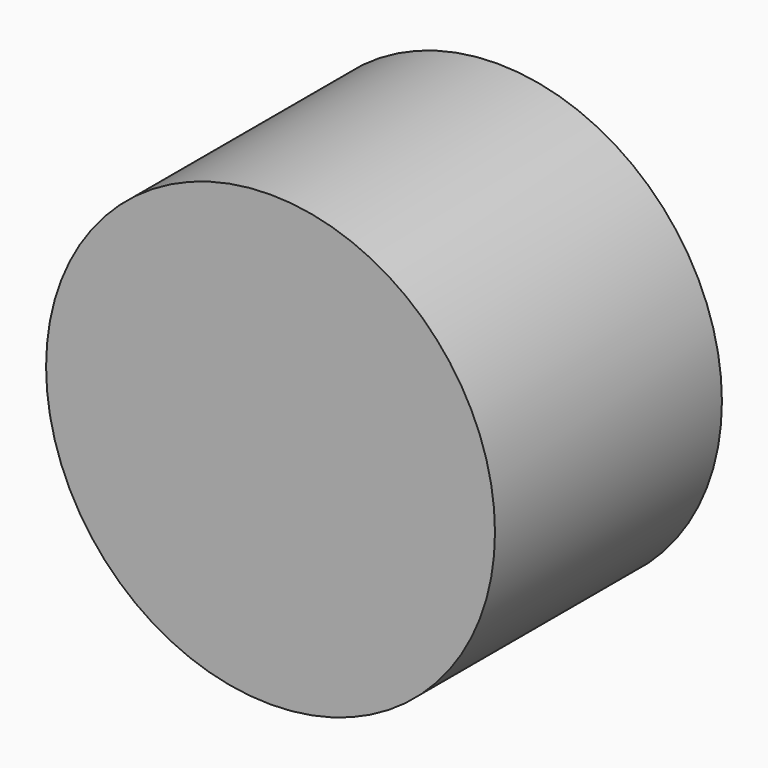
from build123d import *

# Parameters (mm, degrees)
F0_R      = 40.193809
F1_DEPTH  = 25.4
F1_FACE_R = 40.193809
F2_DEPTH  = 25.4


with BuildPart() as f1:
    # F0 (on Front) → F1 (new body)
    with BuildSketch(Plane.XZ):
        Circle(F0_R)
    extrude(amount=F1_DEPTH)

    # F1_face (on face) → F2 (join)
    with BuildSketch(Plane.XZ.offset(25.4)):
        Circle(F1_FACE_R)
        Circle(F1_FACE_R)
    extrude(amount=F2_DEPTH)


solid = f1.part
